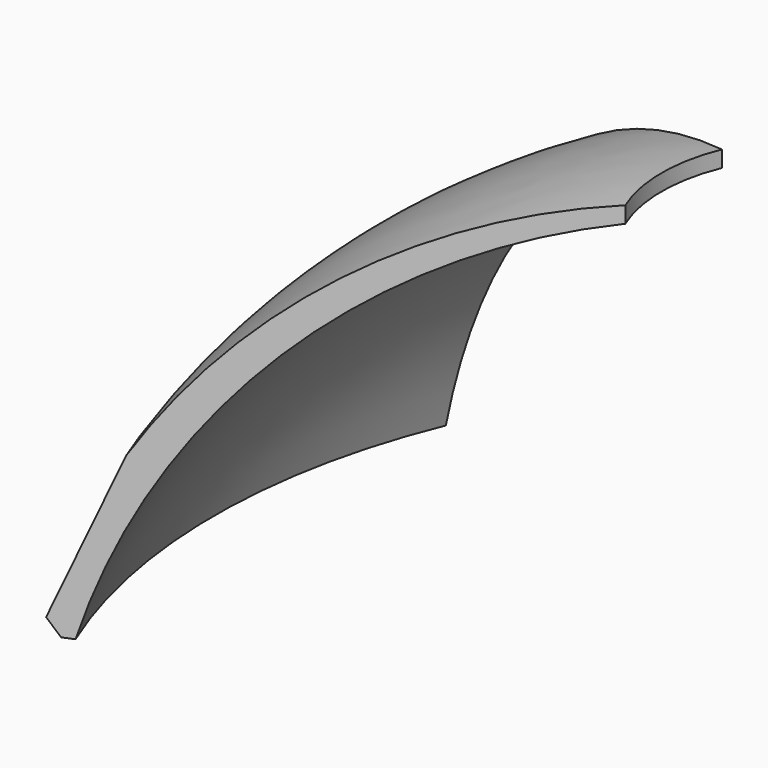
from build123d import *

# Parameters (mm, degrees)
F1_ANGLE_BACK = 22.5
F1_ANGLE      = 45


with BuildPart() as f1:
    # F0 (on Front) → F1 (revolve)
    with BuildSketch(Plane.XZ, mode=Mode.PRIVATE) as f1_sk:
        with BuildLine():
            Line((-133.1289857626, 41.6264310479), (-131.2720806217, 39.2000108324))
            ThreePointArc((-131.2720806217, 39.2000108324), (-124.3811096325, 57.4311724292), (-114.9728228757, 74.5))
            ThreePointArc((-114.9728228757, 74.5), (-79.7296048626, 111.4100090138), (-33.4229083245, 132.8604877273))
            ThreePointArc((-33.4229083245, 132.8604877273), (-82.4725627134, 112.1387121499), (-119.3522877458, 73.7310767074))
            Line((-119.3522877458, 73.7310767074), (-133.1289857626, 41.6264310479))
        make_face()
        with BuildLine():
            ThreePointArc((-114.9728228757, 74.5), (-124.3811096325, 57.4311724292), (-131.2720806217, 39.2000108324))
            Line((-131.2720806217, 39.2000108324), (-130.5343624516, 38.2360335986))
            Line((-130.5343624516, 38.2360335986), (-114.9728228757, 74.5))
        make_face()
        with BuildLine():
            Line((-114.9728228757, 74.5), (-130.5343624516, 38.2360335986))
            Line((-130.5343624516, 38.2360335986), (-128.0638037607, 38.2360335986))
            ThreePointArc((-128.0638037607, 38.2360335986), (-120.8794533125, 57.013067501), (-110.9598220033, 74.5))
            Line((-110.9598220033, 74.5), (-114.9728228757, 74.5))
        make_face()
        with BuildLine():
            ThreePointArc((-33.4229083245, 132.8604877273), (-79.7296048626, 111.4100090138), (-114.9728228757, 74.5))
            Line((-114.9728228757, 74.5), (-110.9598220033, 74.5))
            ThreePointArc((-110.9598220033, 74.5), (-77.2346371913, 109.0740249415), (-33.4229083245, 129.4034052803))
            Line((-33.4229083245, 129.4034052803), (-33.4229083245, 132.8604877273))
        make_face()
    revolve(f1_sk.sketch.rotate(Axis((0, 0, 135.3250179555), (0, 0, 1)), -F1_ANGLE_BACK), axis=Axis((0, 0, 135.3250179555), (0, 0, 1)), revolution_arc=F1_ANGLE)


solid = f1.part
